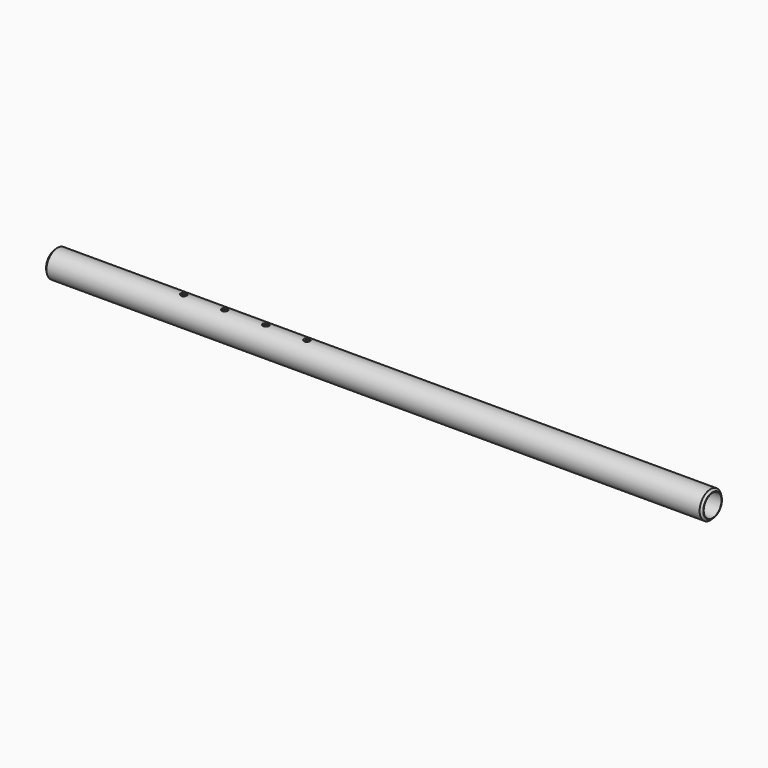
from build123d import *

# Parameters (mm, degrees)
F0_R           = 12.7
F0_R_2         = 10.3124
F1_DEPTH       = 304.8
F4_D           = 3.9624
F4_DEPTH       = 12.7
F4_CSINK_D     = 5.715
F4_CSINK_ANGLE = 90
F4_TIP         = 1.1904250584
F5_SIZE        = 1.905
F6_SIZE        = 1.905


with BuildPart() as f1:
    # F0 (on Right) → F1 (new body, symmetric)
    with BuildSketch(Plane.YZ):
        Circle(F0_R)
        Circle(F0_R_2, mode=Mode.SUBTRACT)
    extrude(amount=F1_DEPTH, both=True)

    # F4
    with Locations(Plane.XY.offset(12.7)):
        with Locations((-185.7375, 0), (-147.6375, 0), (-109.5375, 0), (-71.4375, 0)):
            CounterSinkHole(F4_D / 2, F4_CSINK_D / 2, depth=F4_DEPTH, counter_sink_angle=F4_CSINK_ANGLE)
            with Locations((0, 0, -(F4_DEPTH + F4_TIP / 2))):  # 118° drill point
                Cone(0, F4_D / 2, F4_TIP, mode=Mode.SUBTRACT)

    # F5
    f5_edges = [f1.edges().sort_by_distance(p)[0] for p in [
        (-304.8, -12.7, 0),
    ]]
    chamfer(f5_edges, length=F5_SIZE)

    # F6
    f6_edges = [f1.edges().sort_by_distance(p)[0] for p in [
        (304.8, -12.7, 0),
    ]]
    chamfer(f6_edges, length=F6_SIZE)


solid = f1.part
